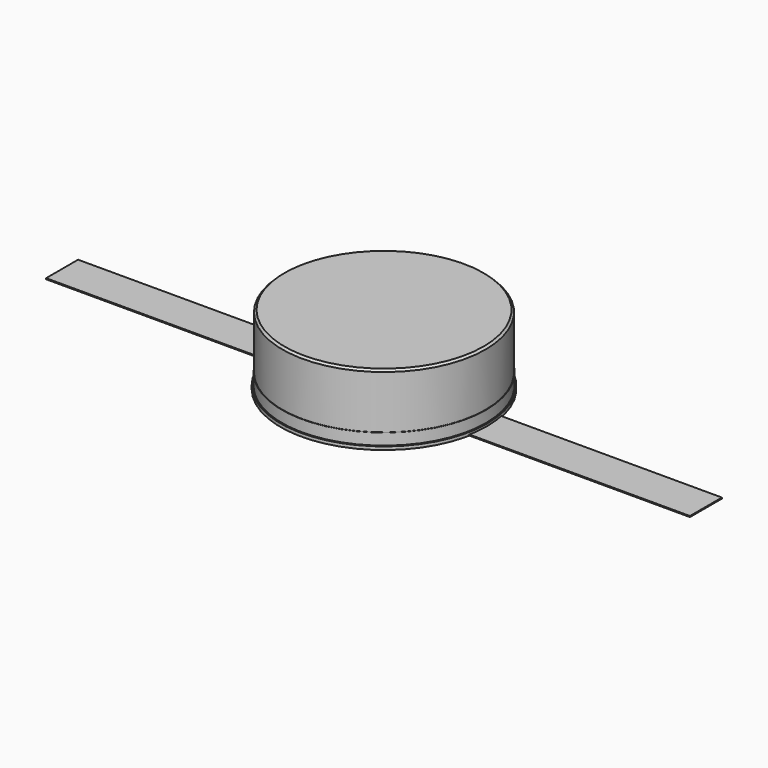
from build123d import *

# Parameters (mm, degrees)
F0_R      = 25.4
F1_DEPTH  = 17.44
F2_R      = 25.85
F2_R_2    = 15.8
F3_DEPTH  = 0.8
F4_R      = 25.5
F4_R_2    = 17.45
F5_DEPTH  = 3.67
F6_R      = 25.83
F7_DEPTH  = 0.28
F8_SIZE   = 0.5
F9_W      = 161
F9_H      = 10
F10_DEPTH = 0.25


with BuildPart() as f1:
    # F0 (on Top) → F1 (new body)
    with BuildSketch(Plane.XY):
        Circle(F0_R)
    extrude(amount=F1_DEPTH)

    # F8
    f8_edges = [f1.edges().sort_by_distance(p)[0] for p in [
        (-25.4, 0, 17.44),
        (-25.4, 0, 0),
    ]]
    chamfer(f8_edges, length=F8_SIZE)


with BuildPart() as f3:
    # F2 (on Top) → F3 (new body)
    with BuildSketch(Plane.XY):
        Circle(F2_R)
        Circle(F2_R_2, mode=Mode.SUBTRACT)
    extrude(amount=F3_DEPTH)


with BuildPart() as f5:
    # F4 (on Top) → F5 (new body)
    with BuildSketch(Plane.XY):
        Circle(F4_R)
        Circle(F4_R_2, mode=Mode.SUBTRACT)
    extrude(amount=F5_DEPTH)


with BuildPart() as f7:
    # F6 (on Top) → F7 (new body)
    with BuildSketch(Plane.XY):
        Circle(F6_R)
    extrude(amount=F7_DEPTH)


with BuildPart() as f10:
    # F9 (on Top) → F10 (new body)
    with BuildSketch(Plane.XY):
        Rectangle(F9_W, F9_H)
    extrude(amount=F10_DEPTH)


solid = Compound([f1.part, f3.part, f5.part, f7.part, f10.part])
